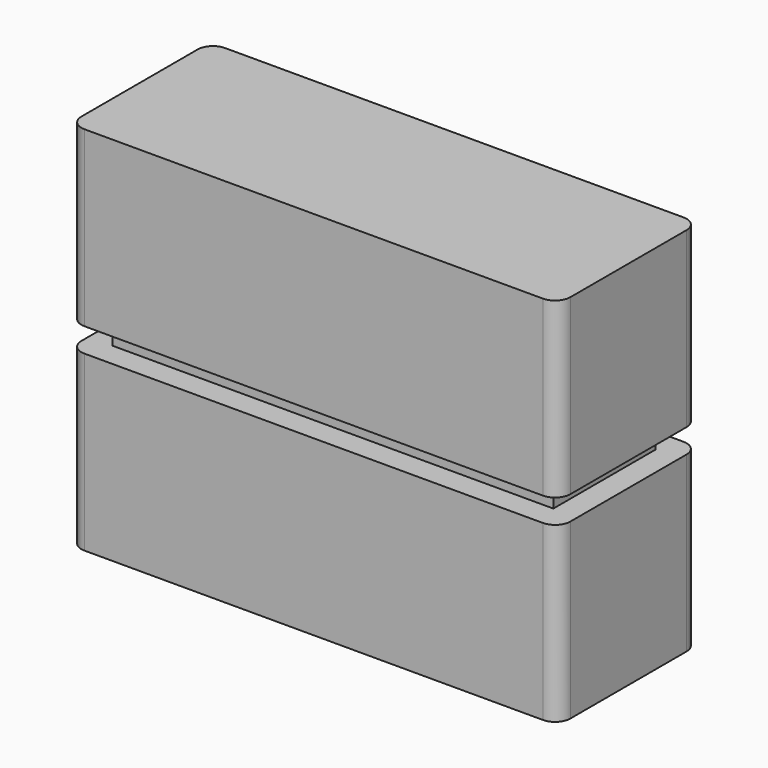
from build123d import *

# Parameters (mm, degrees)
F0_W     = 203
F0_H     = 73
F0_W_2   = 183
F0_H_2   = 53
F1_DEPTH = 72
F2_DEPTH = 36
F4_W     = 203
F4_H     = 73
F4_W_2   = 183
F4_H_2   = 53
F5_DEPTH = 72
F6_DEPTH = 36
F7_R     = 6.35
F7_2_R   = 6.35


with BuildPart() as f1:
    # F0 (on Top) → F1 (new body)
    with BuildSketch(Plane.XY):
        Rectangle(F0_W, F0_H)
        Rectangle(F0_W_2, F0_H_2, mode=Mode.SUBTRACT)
        Rectangle(F0_W_2, F0_H_2)
    extrude(amount=-F1_DEPTH)

    # F0 (on Top) → F2 (join)
    with BuildSketch(Plane.XY):
        Rectangle(F0_W_2, F0_H_2)
    extrude(amount=F2_DEPTH)

    # F7#2
    f7_2_edges = [f1.edges().sort_by_distance(p)[0] for p in [
        (101.5, 36.5, -36),
        (101.5, -36.5, -36),
        (-101.5, 36.5, -36),
        (-101.5, -36.5, -36),
    ]]
    fillet(f7_2_edges, radius=F7_2_R)


with BuildPart() as f5:
    # F4 (on offset) → F5 (new body)
    with BuildSketch(Plane.XY.offset(10)):
        Rectangle(F4_W, F4_H)
        Rectangle(F4_W_2, F4_H_2, mode=Mode.SUBTRACT)
        Rectangle(F4_W_2, F4_H_2)
    extrude(amount=F5_DEPTH)

    # F4 (on offset) → F6 (cut)
    with BuildSketch(Plane.XY.offset(10)):
        Rectangle(F4_W_2, F4_H_2)
    extrude(amount=F6_DEPTH, mode=Mode.SUBTRACT)

    # F7
    f7_edges = [f5.edges().sort_by_distance(p)[0] for p in [
        (101.5, 36.5, 46),
        (101.5, -36.5, 46),
        (-101.5, 36.5, 46),
        (-101.5, -36.5, 46),
    ]]
    fillet(f7_edges, radius=F7_R)


solid = Compound([f1.part, f5.part])
